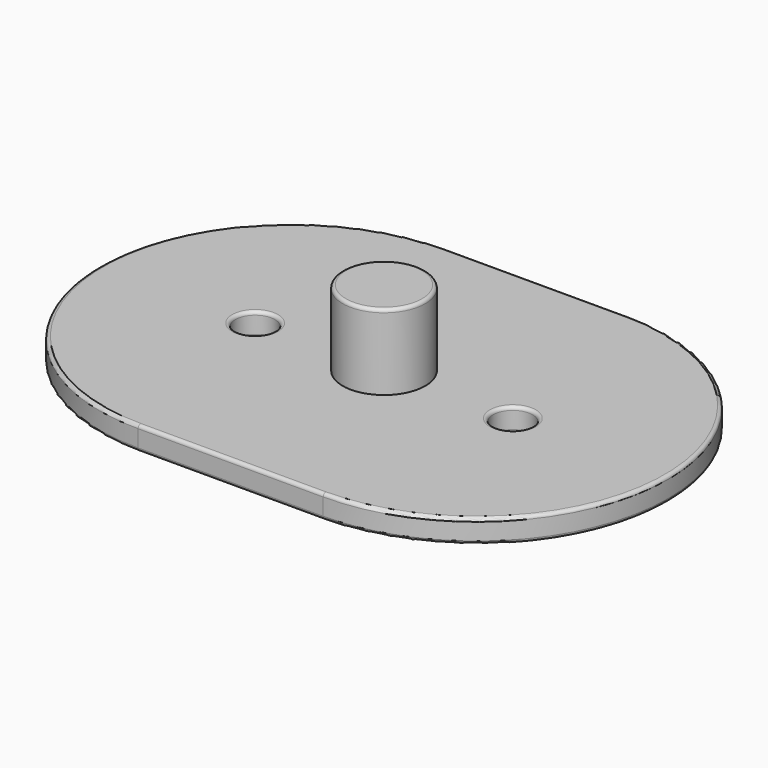
from build123d import *

# Parameters (mm, degrees)
PAD_DEPTH    = 7.1
SKETCH001_R  = 5.95
POCKET_DEPTH = 7.101
SKETCH004_R  = 12.5
PAD001_DEPTH = 30
FILLET_R     = 1
FILLET001_R  = 1
FILLET002_R  = 1
FILLET003_R  = 1
FILLET004_R  = 1
FILLET005_R  = 1
FILLET006_R  = 1


with BuildPart() as part:
    # Sketch → Pad (new body)
    with BuildSketch(Plane.XY):
        with BuildLine():
            ThreePointArc((-28, 58), (-86, 0), (-28, -58))
            Line((-28, -58), (28, -58))
            ThreePointArc((28, -58), (86, 0), (28, 58))
            Line((-28, 58), (28, 58))
        make_face()
    extrude(amount=PAD_DEPTH)

    # Sketch001 → Pocket (cut, through all)
    with BuildSketch(Plane.XY):
        with Locations((39, 0)):
            Circle(SKETCH001_R)
        with Locations((-39, 0)):
            Circle(SKETCH001_R)
    extrude(amount=POCKET_DEPTH, mode=Mode.SUBTRACT)

    # Sketch004 → Pad001 (join)
    with BuildSketch(Plane.XY):
        Circle(SKETCH004_R)
    extrude(amount=PAD001_DEPTH)

    # Fillet
    fillet_edges = [part.edges().sort_by_distance(p)[0] for p in [
        (-12.5, 0, 30),
    ]]
    fillet(fillet_edges, radius=FILLET_R)

    # Fillet001
    fillet001_edges = [part.edges().sort_by_distance(p)[0] for p in [
        (-86, 0, 7.1),
        (0, 58, 7.1),
        (86, 0, 7.1),
        (0, -58, 7.1),
    ]]
    fillet(fillet001_edges, radius=FILLET001_R)

    # Fillet002
    fillet002_edges = [part.edges().sort_by_distance(p)[0] for p in [
        (0, 58, 0),
        (-86, 0, 0),
        (0, -58, 0),
        (86, 0, 0),
    ]]
    fillet(fillet002_edges, radius=FILLET002_R)

    # Fillet003
    fillet003_edges = [part.edges().sort_by_distance(p)[0] for p in [
        (33.05, 0, 0),
    ]]
    fillet(fillet003_edges, radius=FILLET003_R)

    # Fillet004
    fillet004_edges = [part.edges().sort_by_distance(p)[0] for p in [
        (-44.95, 0, 0),
    ]]
    fillet(fillet004_edges, radius=FILLET004_R)

    # Fillet005
    fillet005_edges = [part.edges().sort_by_distance(p)[0] for p in [
        (33.05, 0, 7.1),
    ]]
    fillet(fillet005_edges, radius=FILLET005_R)

    # Fillet006
    fillet006_edges = [part.edges().sort_by_distance(p)[0] for p in [
        (-44.95, 0, 7.1),
    ]]
    fillet(fillet006_edges, radius=FILLET006_R)


solid = part.part
